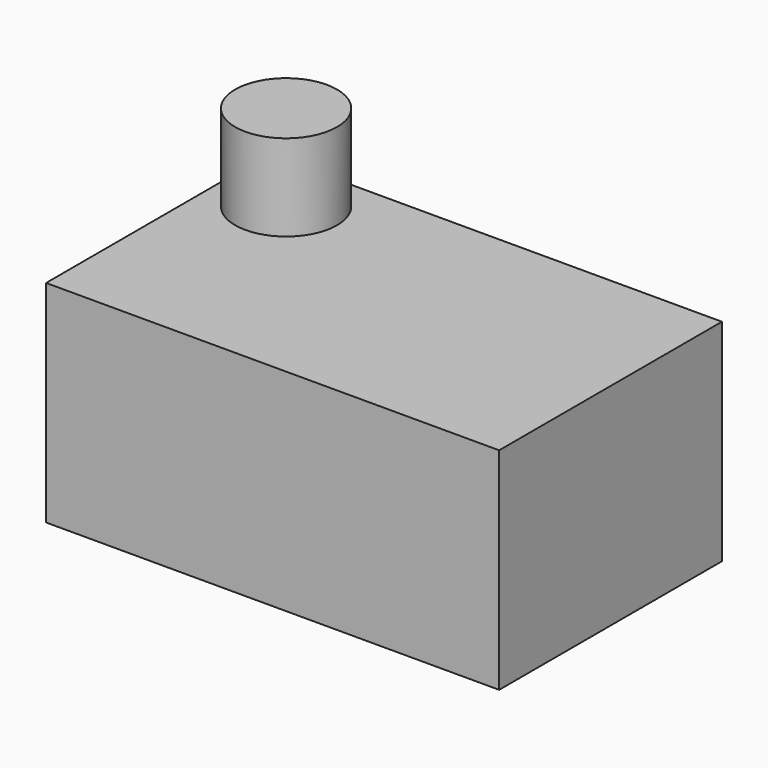
from build123d import *

# Parameters (mm, degrees)
F0_W     = 54.566301
F0_H     = 33.538647
F1_DEPTH = 25.4
F2_R     = 6.13249
F3_DEPTH = 35.814


with BuildPart() as f1:
    # F0 (on Top) → F1 (new body)
    with BuildSketch(Plane.XY):
        with Locations((27.28315, 16.769323)):
            Rectangle(F0_W, F0_H)
    extrude(amount=F1_DEPTH)

    # F2 (on Top) → F3 (join)
    with BuildSketch(Plane.XY):
        with Locations((7.89733, 26.263695)):
            Circle(F2_R)
    extrude(amount=F3_DEPTH)


solid = f1.part
